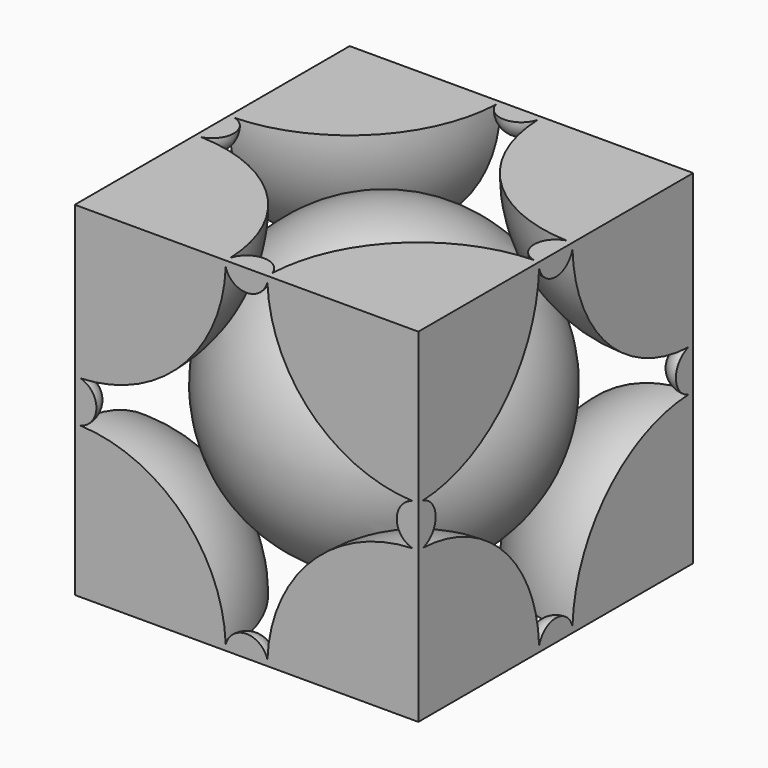
from build123d import *

# Parameters (mm, degrees)
F1_ANGLE  = 90
F3_COUNT  = 4
F3_ANGLE  = 270
F9_ANGLE  = 90
F10_COUNT = 4
F10_ANGLE = 270
F13_COUNT = 2
F13_ANGLE = 90


with BuildPart() as f1:
    # F0 (on Top) → F1 (revolve)
    with BuildSketch(Plane.XY):
        with BuildLine():
            Line((-36.83, 36.83), (-36.83, 4.445))
            ThreePointArc((-36.83, 4.445), (-13.9303468913, 13.9303468913), (-4.445, 36.83))
            Line((-4.445, 36.83), (-36.83, 36.83))
        make_face()
    revolve(axis=Axis((-36.83, 20.6375, 0), (0, -1, 0)), revolution_arc=F1_ANGLE)


with BuildPart() as f3_1:
    # F3: instance of F1
    add(f1.part.rotate(Axis((0, 0, 12.7), (0, 0, 1)), 1 * F3_ANGLE / (F3_COUNT - 1)))


with BuildPart() as f3_2:
    # F3: instance of F1
    add(f1.part.rotate(Axis((0, 0, 12.7), (0, 0, 1)), 2 * F3_ANGLE / (F3_COUNT - 1)))


with BuildPart() as f3_3:
    # F3: instance of F1
    add(f1.part.rotate(Axis((0, 0, 12.7), (0, 0, 1)), 3 * F3_ANGLE / (F3_COUNT - 1)))


with BuildPart() as f5_1:
    # F5: instance of F1
    add(f1.part.mirror(Plane.XY.offset(36.83)))


with BuildPart() as f5_2:
    # F5: instance of F3_1
    add(f3_1.part.mirror(Plane.XY.offset(36.83)))


with BuildPart() as f5_3:
    # F5: instance of F3_2
    add(f3_2.part.mirror(Plane.XY.offset(36.83)))


with BuildPart() as f5_4:
    # F5: instance of F3_3
    add(f3_3.part.mirror(Plane.XY.offset(36.83)))


with BuildPart() as f7:
    # F6 (on offset) → F7 (revolve)
    with BuildSketch(Plane.XY.offset(36.83)):
        with BuildLine():
            Line((32.639, 0), (-32.639, 0))
            ThreePointArc((-32.639, 0), (0, -32.639), (32.639, 0))
        make_face()
    revolve(axis=Axis((0, 0, 36.83), (1, 0, 0)))


with BuildPart() as f9:
    # F8 (on Top) → F9 (revolve)
    with BuildSketch(Plane.XY):
        with BuildLine():
            Line((4.6355, 36.83), (-4.6355, 36.83))
            ThreePointArc((-4.6355, 36.83), (0, 32.1945), (4.6355, 36.83))
        make_face()
    revolve(axis=Axis((0, 36.83, 0), (-1, 0, 0)), revolution_arc=F9_ANGLE)


with BuildPart() as f10_1:
    # F10: instance of F9
    add(f9.part.rotate(Axis((0, 0, 12.7), (0, 0, 1)), 1 * F10_ANGLE / (F10_COUNT - 1)))


with BuildPart() as f10_2:
    # F10: instance of F9
    add(f9.part.rotate(Axis((0, 0, 12.7), (0, 0, 1)), 2 * F10_ANGLE / (F10_COUNT - 1)))


with BuildPart() as f10_3:
    # F10: instance of F9
    add(f9.part.rotate(Axis((0, 0, 12.7), (0, 0, 1)), 3 * F10_ANGLE / (F10_COUNT - 1)))


with BuildPart() as f11_1:
    # F11: instance of F9
    add(f9.part.mirror(Plane.XY.offset(36.83)))


with BuildPart() as f11_2:
    # F11: instance of F10_3
    add(f10_3.part.mirror(Plane.XY.offset(36.83)))


with BuildPart() as f11_3:
    # F11: instance of F10_2
    add(f10_2.part.mirror(Plane.XY.offset(36.83)))


with BuildPart() as f11_4:
    # F11: instance of F10_1
    add(f10_1.part.mirror(Plane.XY.offset(36.83)))


with BuildPart() as f13_1:
    # F13: instance of F9
    add(f9.part.rotate(Axis((0, 12.7, 36.83), (0, 1, 0)), 1 * F13_ANGLE / (F13_COUNT - 1)))


with BuildPart() as f13_2:
    # F13: instance of F10_2
    add(f10_2.part.rotate(Axis((0, 12.7, 36.83), (0, 1, 0)), 1 * F13_ANGLE / (F13_COUNT - 1)))


with BuildPart() as f1_1:
    add(f1.part)

    add(f3_1.part)  # F14 merges F3_1

    add(f3_2.part)  # F14 merges F3_2

    add(f3_3.part)  # F14 merges F3_3

    add(f5_1.part)  # F14 merges F5_1

    add(f5_2.part)  # F14 merges F5_2

    add(f5_3.part)  # F14 merges F5_3

    add(f5_4.part)  # F14 merges F5_4

    add(f7.part)  # F14 merges F7

    add(f9.part)  # F14 merges F9

    add(f10_1.part)  # F14 merges F10_1

    add(f10_2.part)  # F14 merges F10_2

    add(f10_3.part)  # F14 merges F10_3

    add(f11_1.part)  # F14 merges F11_1

    add(f11_2.part)  # F14 merges F11_2

    add(f11_3.part)  # F14 merges F11_3

    add(f11_4.part)  # F14 merges F11_4

    add(f13_1.part)  # F14 merges F13_1

    add(f13_2.part)  # F14 merges F13_2
    # F14: F13_1, F13_2 across plane
    add(f13_1.part.mirror(Plane.YZ))
    add(f13_2.part.mirror(Plane.YZ))


solid = f1_1.part
